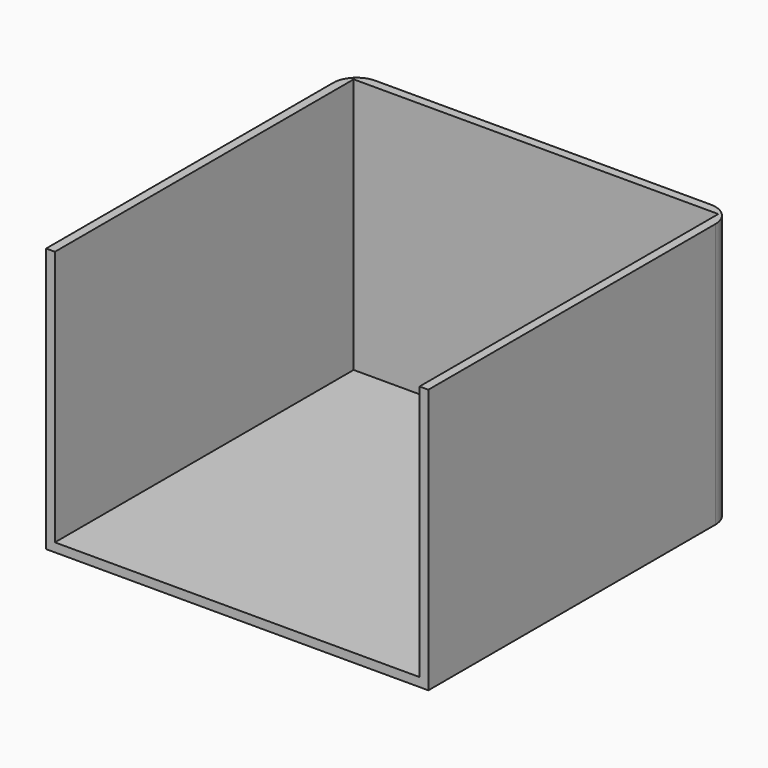
from build123d import *

# Parameters (mm, degrees)
F0_W     = 165.1
F0_H     = 114.3
F1_DEPTH = 165.1
F2_T     = -3.81
F3_R     = 10.16


with BuildPart() as f1:
    # F0 (on Front) → F1 (new body)
    with BuildSketch(Plane.XZ):
        Rectangle(F0_W, F0_H)
    extrude(amount=F1_DEPTH)

    # F2
    f2_openings = [f1.faces().sort_by_distance(p)[0] for p in [
        (0, -165.1, 0),
        (0, -82.55, 57.15),
    ]]
    offset(amount=F2_T, openings=f2_openings)

    # F3
    f3_edges = [f1.edges().sort_by_distance(p)[0] for p in [
        (82.55, 0, 0),
        (-82.55, 0, 0),
    ]]
    fillet(f3_edges, radius=F3_R)


solid = f1.part
